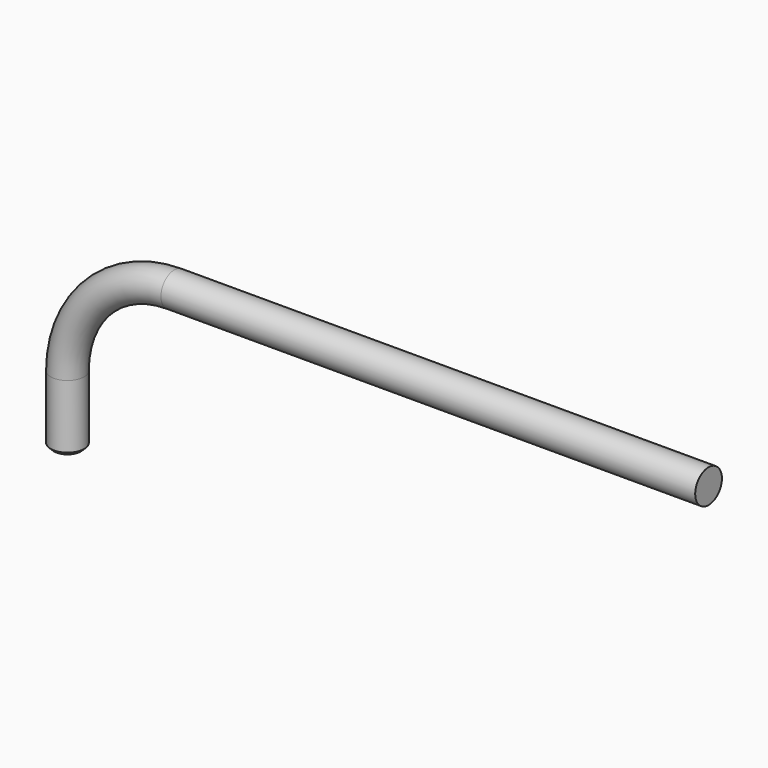
from build123d import *

# Parameters (mm, degrees)
F1_R     = 63.5
F3_SIZE2 = 12.7
F3_SIZE  = 12.7


with BuildPart() as f2:
    # F2: sweep along a path in F0
    with BuildLine(Plane.XZ) as f2_path:
        Line((0, 375.1847569466), (-2032, 375.1847569466))
        ThreePointArc((-2032, 375.1847569466), (-2319.3681958742, 256.1529528208), (-2438.4, -31.2152430534))
        Line((-2438.4, -31.2152430534), (-2438.4, -285.2152430534))
    # F1 (on Right) → F2 (sweep)
    with BuildSketch(Plane.YZ):
        with Locations((0, 375.1847569466)):
            Circle(F1_R)
    sweep(path=f2_path.line)

    # F3
    f3_edges = [f2.edges().sort_by_distance(p)[0] for p in [
        (-2438.4, -63.5, -285.215243),
    ]]
    chamfer(f3_edges, length=F3_SIZE, length2=F3_SIZE2)


solid = f2.part
